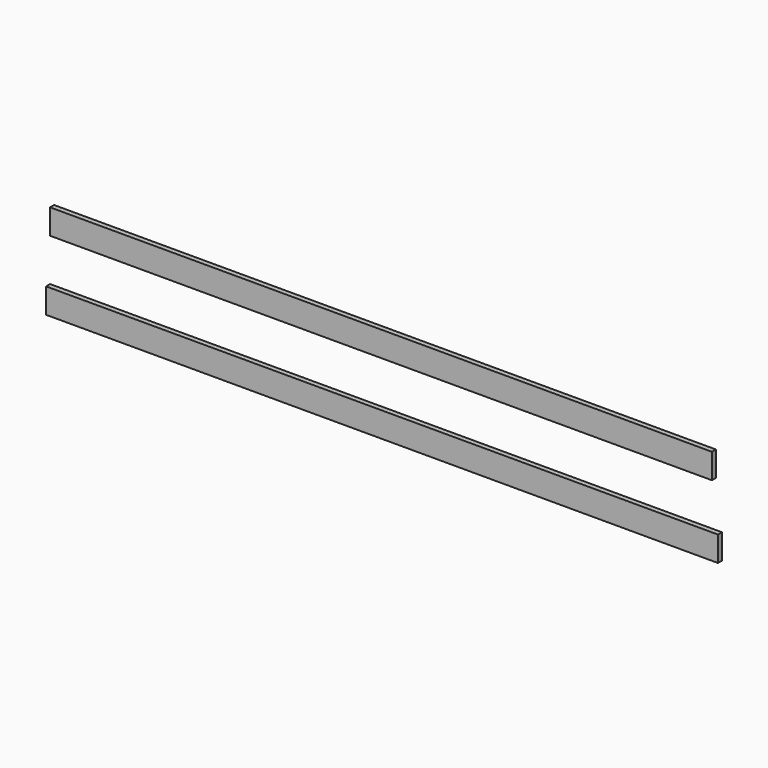
from build123d import *

# Parameters (mm, degrees)
F0_W     = 5105.4
F0_H     = 190.5
F1_DEPTH = 38.1
F2_W     = 38.1
F2_H     = 190.5
F3_DEPTH = 5029.2


with BuildPart() as f1:
    # F0 (on Front) → F1 (new body)
    with BuildSketch(Plane.XZ):
        with Locations((2552.7, 95.25)):
            Rectangle(F0_W, F0_H)
    extrude(amount=F1_DEPTH)


with BuildPart() as f3:
    # F2 (on Right) → F3 (new body)
    with BuildSketch(Plane.YZ):
        with Locations((19.05, 608.564664)):
            Rectangle(F2_W, F2_H)
    extrude(amount=F3_DEPTH)


solid = Compound([f1.part, f3.part])
